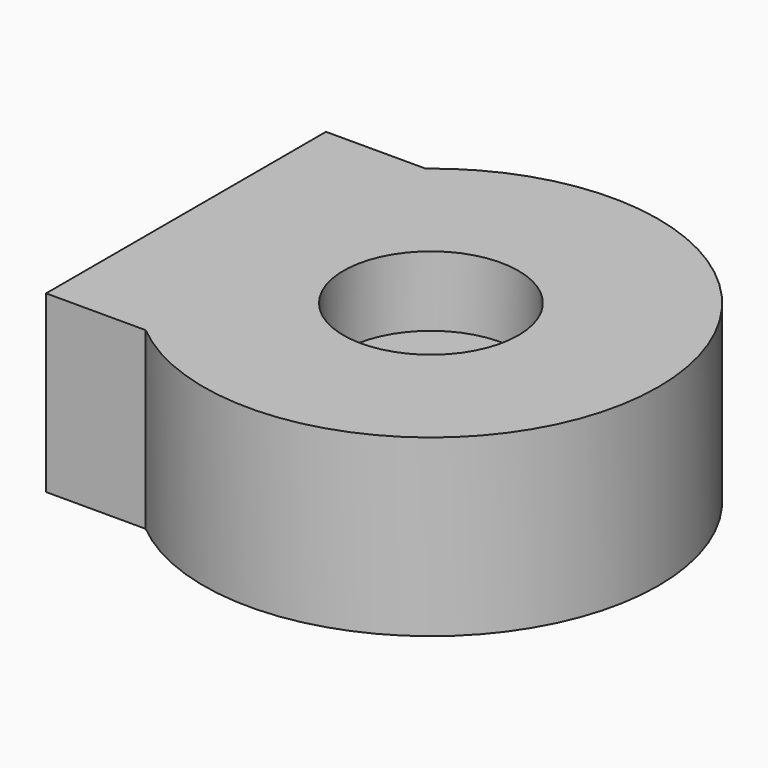
from build123d import *

# Parameters (mm, degrees)
BOX010_W          = 4
BOX010_H          = 10
BOX010_DEPTH      = 5
CYLINDER015_R     = 2.5
CYLINDER015_DEPTH = 2
CYLINDER014_R     = 6.5
CYLINDER014_DEPTH = 5


with BuildPart() as cube010:
    # Box010 → Box010 (new body)
    with BuildSketch(Plane(origin=(7, -5, 0), x_dir=(1, 0, 0), z_dir=(0, 0, 1))):
        with Locations((2, 5)):
            Rectangle(BOX010_W, BOX010_H)
    extrude(amount=BOX010_DEPTH)


with BuildPart() as cylinder015:
    # Cylinder015 → Cylinder015 (new body)
    with BuildSketch(Plane(origin=(14, 0, 3), x_dir=(1, 0, 0), z_dir=(0, 0, 1))):
        Circle(CYLINDER015_R)
    extrude(amount=CYLINDER015_DEPTH)


with BuildPart() as magnet_slot:
    # Cylinder014 → Cylinder014 (new body)
    with BuildSketch(Plane(origin=(14, 0, 0), x_dir=(1, 0, 0), z_dir=(0, 0, 1))):
        Circle(CYLINDER014_R)
    extrude(amount=CYLINDER014_DEPTH)

    # Cut011: cut Cylinder015
    add(cylinder015.part, mode=Mode.SUBTRACT)

    # Fusion001007005: union Cube010
    add(cube010.part)


with BuildPart() as magnet_slot_1:
    # Fusion001007005 placement: moved
    add(magnet_slot.part.moved(Location((0, 0, -2))))


solid = magnet_slot_1.part
